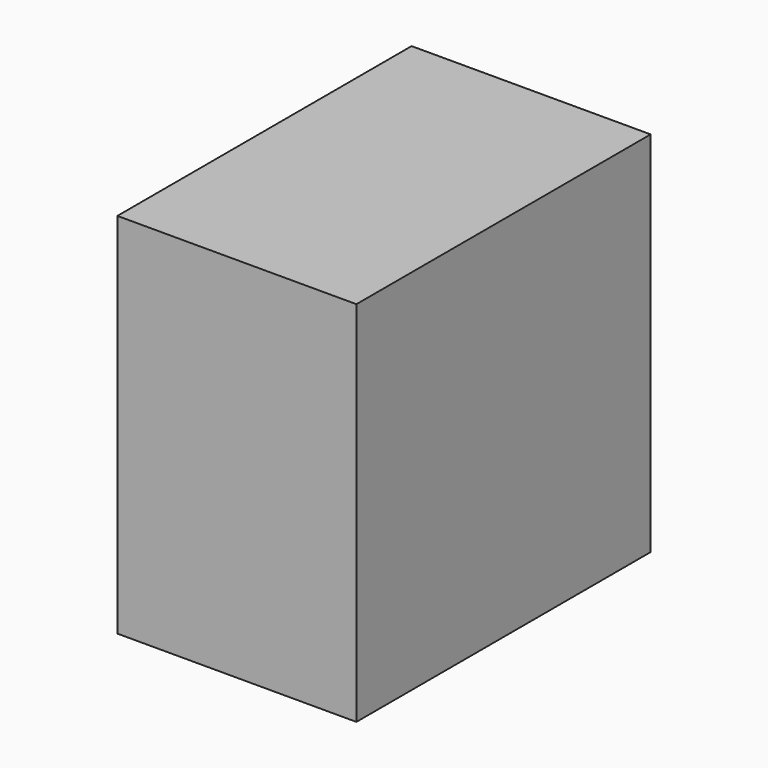
from build123d import *

# Parameters (mm, degrees)
BLOCK_W     = 13
BLOCK_H     = 20
BLOCK_DEPTH = 20


with BuildPart() as part:
    # Block → Block (new body)
    with BuildSketch(Plane.XY):
        with Locations((6.5, 10)):
            Rectangle(BLOCK_W, BLOCK_H)
    extrude(amount=BLOCK_DEPTH)


solid = part.part
